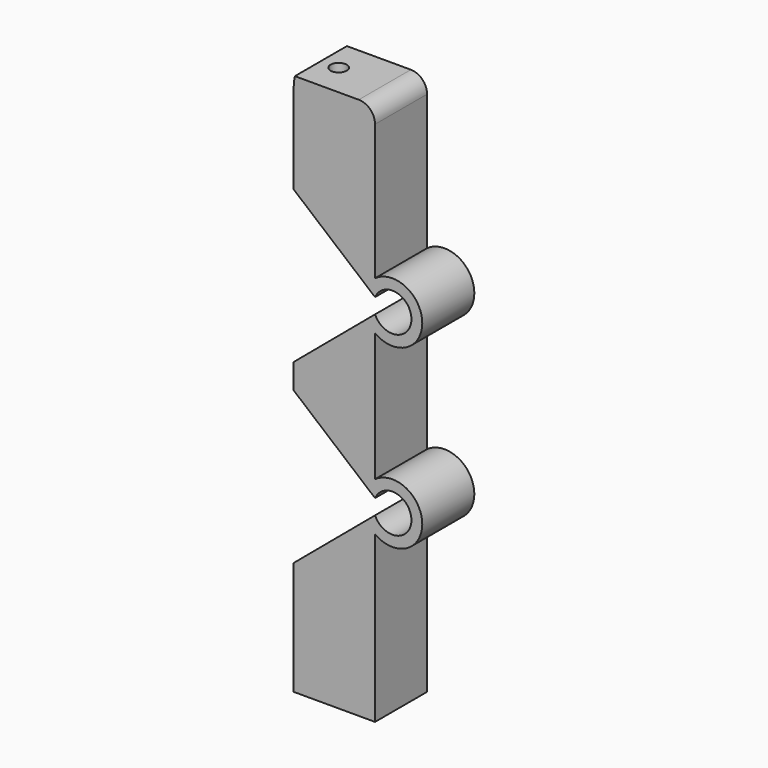
from build123d import *

# Parameters (mm, degrees)
F1_DEPTH = 6
F2_R     = 1.5
F3_DEPTH = 100.001


with BuildPart() as f1:
    # F0 (on Front) → F1 (new body, symmetric)
    with BuildSketch(Plane.XZ):
        with BuildLine():
            Line((-44.071493, 0), (-29.071493, 0))
            Line((-29.071493, 0), (-29.071493, 30.459528))
            ThreePointArc((-29.071493, 30.459528), (-20.363871, 34.92732), (-29.071493, 39.395112))
            Line((-29.071493, 39.395112), (-29.071493, 63.075775))
            ThreePointArc((-29.071493, 63.075775), (-20.363871, 67.543567), (-29.071493, 72.011359))
            Line((-29.071493, 72.011359), (-29.071493, 97))
            ThreePointArc((-29.071493, 97), (-29.950172, 99.12132), (-32.071493, 100))
            Line((-32.071493, 100), (-43.85215, 100))
            ThreePointArc((-43.85215, 100), (-44.016506, 98.964276), (-44.071493, 97.917036))
            Line((-44.071493, 97.917036), (-44.071493, 81.547718))
            Line((-44.071493, 81.547718), (-29.071493, 68.943982))
            ThreePointArc((-29.071493, 68.943982), (-22.363871, 67.543567), (-29.071493, 66.143152))
            Line((-29.071493, 66.143152), (-44.071493, 53.539416))
            Line((-44.071493, 53.539416), (-44.071493, 48.931471))
            Line((-44.071493, 48.931471), (-29.071493, 36.327735))
            ThreePointArc((-29.071493, 36.327735), (-22.363871, 34.92732), (-29.071493, 33.526905))
            Line((-29.071493, 33.526905), (-44.071493, 20.923169))
            Line((-44.071493, 20.923169), (-44.071493, 0))
        make_face()
    extrude(amount=F1_DEPTH, both=True)

    # F2 (on Top) → F3 (cut, through all)
    with BuildSketch(Plane.XY):
        with Locations((-40.571493, 0)):
            Circle(F2_R)
    extrude(amount=F3_DEPTH, mode=Mode.SUBTRACT)


solid = f1.part
